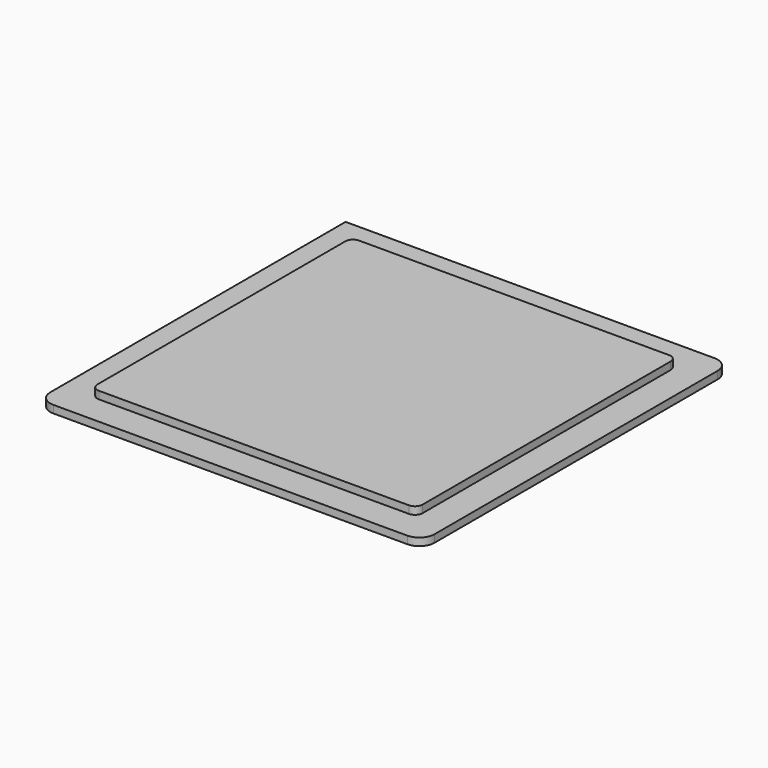
from build123d import *

# Parameters (mm, degrees)
PAD_DEPTH    = 0.5
PAD001_DEPTH = 1
SKETCH001_R  = 1
POCKET_DEPTH = 0.5


with BuildPart() as part:
    # Sketch (on DatumPlane) → Pad (new body)
    with BuildSketch(Plane.XY.offset(0.51)):
        with BuildLine():
            Line((-3.175, 3.175), (21.225, 3.175))
            ThreePointArc((22.225, 2.175), (21.932107, 2.882107), (21.225, 3.175))
            Line((22.225, 2.175), (22.225, -21.225))
            ThreePointArc((21.225, -22.225), (21.932107, -21.932107), (22.225, -21.225))
            Line((21.225, -22.225), (-2.175, -22.225))
            ThreePointArc((-3.175, -21.225), (-2.882107, -21.932107), (-2.175, -22.225))
            Line((-3.175, -21.225), (-3.175, 3.175))
        make_face()
    extrude(amount=PAD_DEPTH)

    # Sketch002 (on DatumPlane) → Pad001 (join)
    with BuildSketch(Plane.XY.offset(0.51)):
        with BuildLine():
            Line((-1.225, 0.725), (-1.225, -19.775))
            ThreePointArc((-1.225, -19.775), (-1.078553, -20.128553), (-0.725, -20.275))
            Line((-0.725, -20.275), (19.775, -20.275))
            ThreePointArc((19.775, -20.275), (20.128553, -20.128553), (20.275, -19.775))
            Line((20.275, -19.775), (20.275, 0.725))
            ThreePointArc((20.275, 0.725), (20.128553, 1.078553), (19.775, 1.225))
            Line((19.775, 1.225), (-0.725, 1.225))
            ThreePointArc((-0.725, 1.225), (-1.078553, 1.078553), (-1.225, 0.725))
        make_face()
    extrude(amount=PAD001_DEPTH)

    # Sketch001 (on DatumPlane) → Pocket (cut)
    with BuildSketch(Plane.XY.offset(0.51)):
        Circle(SKETCH001_R)
        with Locations((0, -19.05)):
            Circle(SKETCH001_R)
        with Locations((0, -9.525)):
            Circle(SKETCH001_R)
        with Locations((19.05, -19.05)):
            Circle(SKETCH001_R)
        with Locations((19.05, 0)):
            Circle(SKETCH001_R)
    extrude(amount=POCKET_DEPTH, mode=Mode.SUBTRACT)


solid = part.part
